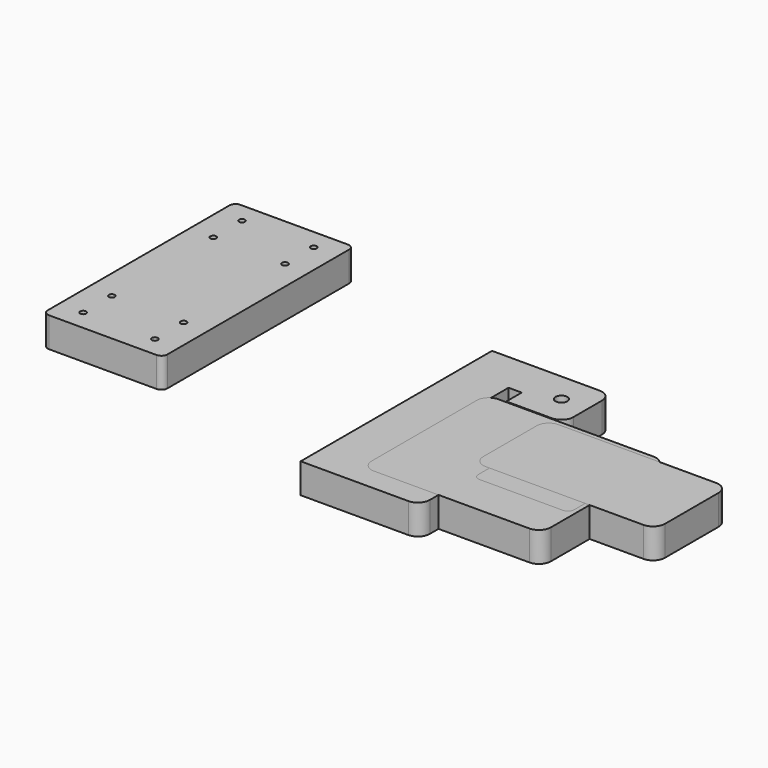
from build123d import *

# Parameters (mm, degrees)
F1_R      = 2.5
F2_DEPTH  = 25
F3_R      = 5
F4_DEPTH  = 25
F5_DEPTH  = 25
F6_DEPTH  = 25
F8_DEPTH  = 25
F10_DEPTH = 25


with BuildPart() as f2:
    # F1 (on Top) → F2 (new body)
    with BuildSketch(Plane.XY):
        with BuildLine():
            Line((-380.495468, 185.443412), (-470.495468, 185.443412))
            ThreePointArc((-470.495468, 185.443412), (-474.031002, 183.978945), (-475.495468, 180.443412))
            Line((-475.495468, 180.443412), (-475.495468, -9.556588))
            ThreePointArc((-475.495468, -9.556588), (-474.031002, -13.092122), (-470.495468, -14.556588))
            Line((-470.495468, -14.556588), (-380.495468, -14.556588))
            ThreePointArc((-380.495468, -14.556588), (-376.959934, -13.092122), (-375.495468, -9.556588))
            Line((-375.495468, -9.556588), (-375.495468, 180.443412))
            ThreePointArc((-375.495468, 180.443412), (-376.959934, 183.978945), (-380.495468, 185.443412))
        make_face()
        with Locations((-455.495468, 2.443412)):
            Circle(F1_R, mode=Mode.SUBTRACT)
        with Locations((-455.495468, 32.443412)):
            Circle(F1_R, mode=Mode.SUBTRACT)
        with Locations((-395.495468, 2.443412)):
            Circle(F1_R, mode=Mode.SUBTRACT)
        with Locations((-395.495468, 32.443412)):
            Circle(F1_R, mode=Mode.SUBTRACT)
        with Locations((-455.495468, 138.443412)):
            Circle(F1_R, mode=Mode.SUBTRACT)
        with Locations((-455.495468, 168.443412)):
            Circle(F1_R, mode=Mode.SUBTRACT)
        with Locations((-395.495468, 138.443412)):
            Circle(F1_R, mode=Mode.SUBTRACT)
        with Locations((-395.495468, 168.443412)):
            Circle(F1_R, mode=Mode.SUBTRACT)
    extrude(amount=F2_DEPTH)


with BuildPart() as f4:
    # F3 (on Top) → F4 (new body)
    with BuildSketch(Plane.XY):
        with BuildLine():
            Line((-123.186625, 126.865631), (-213.186625, 126.865631))
            Line((-213.186625, 126.865631), (-213.186625, -73.134369))
            Line((-213.186625, -73.134369), (-123.186625, -73.134369))
            ThreePointArc((-123.186625, -73.134369), (-116.115557, -70.205436), (-113.186625, -63.134369))
            Line((-113.186625, -63.134369), (-113.186625, -33.134369))
            ThreePointArc((-113.186625, -33.134369), (-116.115557, -26.063301), (-123.186625, -23.134369))
            Line((-123.186625, -23.134369), (-161.186625, -23.134369))
            Line((-161.186625, -23.134369), (-161.186625, -39.134369))
            Line((-161.186625, -39.134369), (-172.186625, -39.134369))
            Line((-172.186625, -39.134369), (-172.186625, 92.865631))
            Line((-172.186625, 92.865631), (-161.186625, 92.865631))
            Line((-161.186625, 92.865631), (-161.186625, 76.865631))
            Line((-161.186625, 76.865631), (-123.186625, 76.865631))
            ThreePointArc((-123.186625, 76.865631), (-116.115557, 79.794564), (-113.186625, 86.865631))
            Line((-113.186625, 86.865631), (-113.186625, 116.865631))
            ThreePointArc((-113.186625, 116.865631), (-116.115557, 123.936699), (-123.186625, 126.865631))
        make_face()
        with Locations((-135.186625, 101.865631)):
            Circle(F3_R, mode=Mode.SUBTRACT)
    extrude(amount=F4_DEPTH)

    # F0 (on Top) → F5 (join)
    with BuildSketch(Plane.XY):
        with BuildLine():
            Line((-37.23768, 75.968715), (-167.23768, 75.968715))
            ThreePointArc((-167.23768, 75.968715), (-174.308748, 73.039783), (-177.23768, 65.968715))
            Line((-177.23768, 65.968715), (-177.23768, -44.031285))
            ThreePointArc((-177.23768, -44.031285), (-174.308748, -51.102353), (-167.23768, -54.031285))
            Line((-167.23768, -54.031285), (-37.23768, -54.031285))
            ThreePointArc((-37.23768, -54.031285), (-30.166612, -51.102353), (-27.23768, -44.031285))
            Line((-27.23768, -44.031285), (-27.23768, 65.968715))
            ThreePointArc((-27.23768, 65.968715), (-30.166612, 73.039783), (-37.23768, 75.968715))
        make_face()
    extrude(amount=F5_DEPTH)


with BuildPart() as f6:
    # F0 (on Top) → F6 (new body)
    with BuildSketch(Plane.XY):
        with BuildLine():
            Line((-37.23768, 75.968715), (-167.23768, 75.968715))
            ThreePointArc((-167.23768, 75.968715), (-174.308748, 73.039783), (-177.23768, 65.968715))
            Line((-177.23768, 65.968715), (-177.23768, -44.031285))
            ThreePointArc((-177.23768, -44.031285), (-174.308748, -51.102353), (-167.23768, -54.031285))
            Line((-167.23768, -54.031285), (-37.23768, -54.031285))
            ThreePointArc((-37.23768, -54.031285), (-30.166612, -51.102353), (-27.23768, -44.031285))
            Line((-27.23768, -44.031285), (-27.23768, 65.968715))
            ThreePointArc((-27.23768, 65.968715), (-30.166612, 73.039783), (-37.23768, 75.968715))
        make_face()
    extrude(amount=F6_DEPTH)


with BuildPart() as f8:
    # F7 (on Top) → F8 (new body)
    with BuildSketch(Plane.XY):
        with BuildLine():
            Line((-35.938318, 59.698157), (-105.938318, 59.698157))
            ThreePointArc((-105.938318, 59.698157), (-109.473852, 58.233691), (-110.938318, 54.698157))
            Line((-110.938318, 54.698157), (-110.938318, -15.301843))
            ThreePointArc((-110.938318, -15.301843), (-109.473852, -18.837377), (-105.938318, -20.301843))
            Line((-105.938318, -20.301843), (-35.938318, -20.301843))
            ThreePointArc((-35.938318, -20.301843), (-32.402784, -18.837377), (-30.938318, -15.301843))
            Line((-30.938318, -15.301843), (-30.938318, 54.698157))
            ThreePointArc((-30.938318, 54.698157), (-32.402784, 58.233691), (-35.938318, 59.698157))
        make_face()
    extrude(amount=F8_DEPTH)


with BuildPart() as f10:
    # F9 (on Top) → F10 (new body)
    with BuildSketch(Plane.XY):
        with BuildLine():
            Line((17.774655, 72.43601), (-114.225345, 72.43601))
            ThreePointArc((-114.225345, 72.43601), (-121.296413, 69.507078), (-124.225345, 62.43601))
            Line((-124.225345, 62.43601), (-124.225345, 6.43601))
            ThreePointArc((-124.225345, 6.43601), (-121.296413, -0.635058), (-114.225345, -3.56399))
            Line((-114.225345, -3.56399), (17.774655, -3.56399))
            ThreePointArc((17.774655, -3.56399), (24.845723, -0.635058), (27.774655, 6.43601))
            Line((27.774655, 6.43601), (27.774655, 62.43601))
            ThreePointArc((27.774655, 62.43601), (24.845723, 69.507078), (17.774655, 72.43601))
        make_face()
    extrude(amount=F10_DEPTH)


solid = Compound([f2.part, f4.part, f6.part, f8.part, f10.part])
